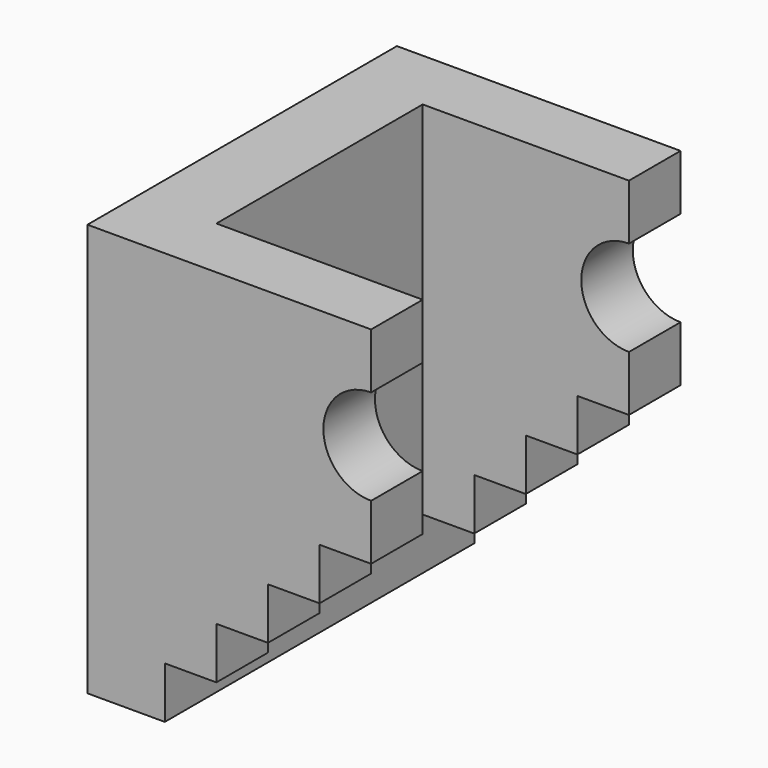
from build123d import *

# Parameters (mm, degrees)
F1_DEPTH      = 75
F1_DEPTH_BACK = 75
F3_START      = 30
F2_W          = 100
F2_H          = 200
F3_DEPTH      = 170


with BuildPart() as f1:
    # F0 (on Front) → F1 (new body, two sides)
    with BuildSketch(Plane.XZ) as f1_sk:
        with BuildLine():
            Line((110, 0), (0, 0))
            Line((0, 0), (0, -160))
            Line((0, -160), (30, -160))
            Line((30, -160), (30, -140))
            Line((30, -140), (50, -140))
            Line((50, -140), (50, -120))
            Line((50, -120), (70, -120))
            Line((70, -120), (70, -100))
            Line((70, -100), (90, -100))
            Line((90, -100), (90, -80))
            Line((90, -80), (110, -80))
            Line((110, -80), (110, -58.5))
            ThreePointArc((110, -58.5), (91.5, -40), (110, -21.5))
            Line((110, -21.5), (110, 0))
        make_face()
    extrude(amount=F1_DEPTH)
    extrude(f1_sk.sketch, amount=-F1_DEPTH_BACK)

    # F2 (on Right) → F3 (cut)
    with BuildSketch(Plane.YZ.offset(F3_START)):
        with Locations((0, -90)):
            Rectangle(F2_W, F2_H)
    extrude(amount=F3_DEPTH, mode=Mode.SUBTRACT)


solid = f1.part
